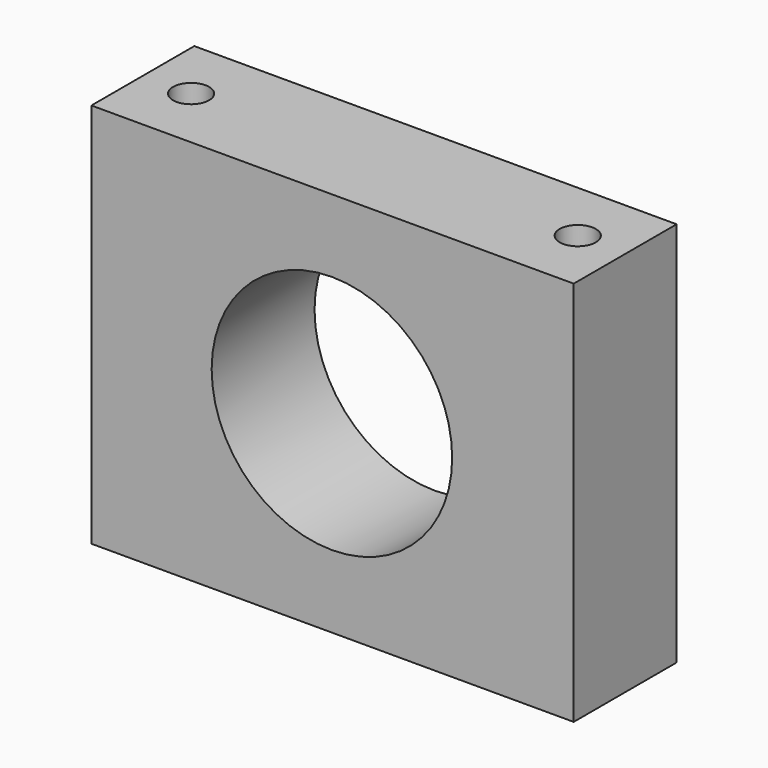
from build123d import *

# Parameters (mm, degrees)
F0_R     = 23.749
F1_DEPTH = 25.4
F2_R     = 3.5687
F3_DEPTH = 76.201


with BuildPart() as f1:
    # F0 (on Front) → F1 (new body)
    with BuildSketch(Plane.XZ):
        Polygon((-50.046381, 43.649083), (-50.046381, -32.550917), (45.203619, -32.550917), (45.203619, 5.549083), (45.203619, 43.649083), align=None)
        with Locations((-2.548381, 5.549083)):
            Circle(F0_R, mode=Mode.SUBTRACT)
    extrude(amount=-F1_DEPTH)

    # F2 (on face) → F3 (cut, through all)
    with BuildSketch(Plane.XY.offset(43.649083)):
        with Locations((-40.521381, 12.7)):
            Circle(F2_R)
        with Locations((35.678619, 12.904839)):
            Circle(F2_R)
    extrude(amount=-F3_DEPTH, mode=Mode.SUBTRACT)


solid = f1.part
